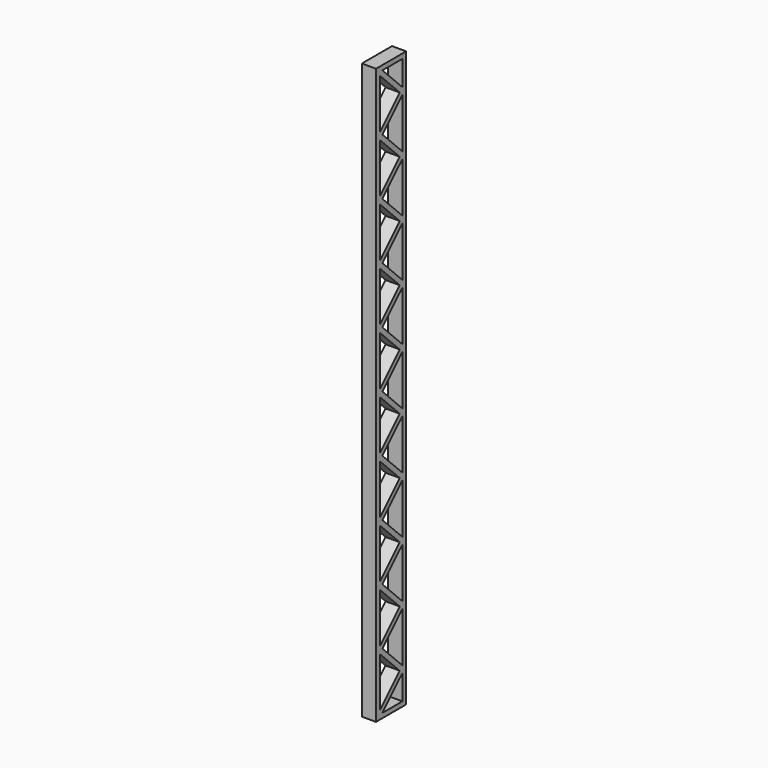
from build123d import *

# Parameters (mm, degrees)
F1_DEPTH = 1.5


with BuildPart() as f1:
    # F0 (on Right) → F1 (new body)
    with BuildSketch(Plane.YZ):
        Polygon((4, 0), (0, 0), (0, -60), (0, -61), (0.353553, -61), (4, -61), (4, -60), align=None)
        Polygon((0.5, -54.853553), (3.146447, -57.5), (0.5, -60.146447), (0.5, -59.5), align=None, mode=Mode.SUBTRACT)
        Polygon((0.5, -48.853553), (3.146447, -51.5), (0.5, -54.146447), align=None, mode=Mode.SUBTRACT)
        Polygon((0.5, -42.853553), (3.146447, -45.5), (0.5, -48.146447), align=None, mode=Mode.SUBTRACT)
        Polygon((0.5, -36.853553), (3.146447, -39.5), (0.5, -42.146447), align=None, mode=Mode.SUBTRACT)
        Polygon((0.5, -30.853553), (3.146447, -33.5), (0.5, -36.146447), align=None, mode=Mode.SUBTRACT)
        Polygon((0.853553, -60.5), (3.5, -57.853553), (3.5, -59.5), (3.5, -60.5), align=None, mode=Mode.SUBTRACT)
        Polygon((3.5, -57.146447), (0.853553, -54.5), (3.5, -51.853553), align=None, mode=Mode.SUBTRACT)
        Polygon((3.5, -51.146447), (0.853553, -48.5), (3.5, -45.853553), align=None, mode=Mode.SUBTRACT)
        Polygon((3.5, -45.146447), (0.853553, -42.5), (3.5, -39.853553), align=None, mode=Mode.SUBTRACT)
        Polygon((3.5, -39.146447), (0.853553, -36.5), (3.5, -33.853553), align=None, mode=Mode.SUBTRACT)
        Polygon((3.5, -33.146447), (0.853553, -30.5), (3.5, -27.853553), align=None, mode=Mode.SUBTRACT)
        Polygon((0.5, -24.853553), (3.146447, -27.5), (0.5, -30.146447), align=None, mode=Mode.SUBTRACT)
        Polygon((0.5, -18.853553), (3.146447, -21.5), (0.5, -24.146447), align=None, mode=Mode.SUBTRACT)
        Polygon((0.5, -12.853553), (3.146447, -15.5), (0.5, -18.146447), align=None, mode=Mode.SUBTRACT)
        Polygon((0.5, -6.853553), (3.146447, -9.5), (0.5, -12.146447), align=None, mode=Mode.SUBTRACT)
        Polygon((0.5, -6.146447), (0.5, -0.853553), (3.146447, -3.5), align=None, mode=Mode.SUBTRACT)
        Polygon((3.5, -27.146447), (0.853553, -24.5), (3.5, -21.853553), align=None, mode=Mode.SUBTRACT)
        Polygon((3.5, -21.146447), (0.853553, -18.5), (3.5, -15.853553), align=None, mode=Mode.SUBTRACT)
        Polygon((3.5, -15.146447), (0.853553, -12.5), (3.5, -9.853553), align=None, mode=Mode.SUBTRACT)
        Polygon((0.853553, -6.5), (3.5, -3.853553), (3.5, -9.146447), align=None, mode=Mode.SUBTRACT)
        Polygon((0.853553, -0.5), (3.5, -0.5), (3.5, -3.146447), align=None, mode=Mode.SUBTRACT)
    extrude(amount=F1_DEPTH)


solid = f1.part
